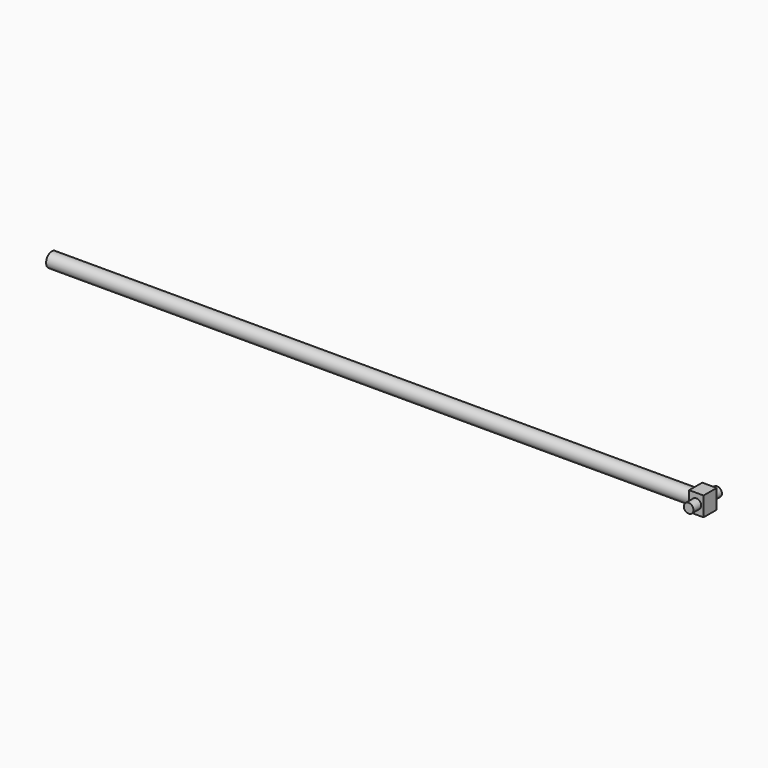
from build123d import *

# Parameters (mm, degrees)
F0_W     = 6
F0_H     = 8
F1_DEPTH = 7.4
F2_W     = 6
F2_H     = 8
F2_R     = 2
F3_DEPTH = 4
F4_W     = 6
F4_H     = 8
F4_R     = 2
F5_DEPTH = 4
F6_R     = 3
F7_DEPTH = 167.74
F8_R     = 3
F9_DEPTH = 100


with BuildPart() as f1:
    # F0 (on Front) → F1 (new body, symmetric)
    with BuildSketch(Plane.XZ):
        Rectangle(F0_W, F0_H)
    extrude(amount=F1_DEPTH, both=True)

    # F2 (on face) → F3 (cut)
    with BuildSketch(Plane.XZ.offset(7.4)):
        Rectangle(F2_W, F2_H)
        Circle(F2_R, mode=Mode.SUBTRACT)
    extrude(amount=-F3_DEPTH, mode=Mode.SUBTRACT)

    # F4 (on face) → F5 (cut)
    with BuildSketch(Plane(origin=(0, 7.4, 0), x_dir=(-1, 0, 0), z_dir=(0, 1, 0))):
        Rectangle(F4_W, F4_H)
        Circle(F4_R, mode=Mode.SUBTRACT)
    extrude(amount=-F5_DEPTH, mode=Mode.SUBTRACT)

    # F6 (on face) → F7 (join)
    with BuildSketch(Plane(origin=(-3, 0, 0), x_dir=(0, -1, 0), z_dir=(-1, 0, 0))):
        Circle(F6_R)
    extrude(amount=F7_DEPTH)

    # F8 (on face) → F9 (join)
    with BuildSketch(Plane(origin=(-170.74, 0, 0), x_dir=(0, -1, 0), z_dir=(-1, 0, 0))):
        Circle(F8_R)
    extrude(amount=F9_DEPTH)


solid = f1.part
